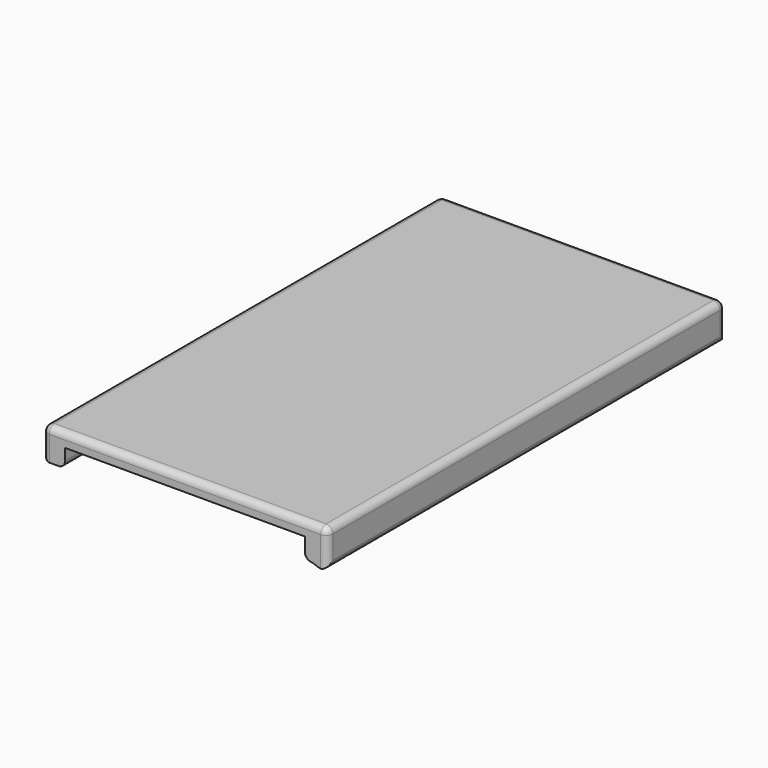
from build123d import *

# Parameters (mm, degrees)
F1_DEPTH = 110
F2_R     = 1.5


with BuildPart() as f1:
    # F0 (on Front) → F1 (new body)
    with BuildSketch(Plane.XZ):
        with BuildLine():
            Line((31.5, -6), (31.5, 3))
            Line((31.5, 3), (-31.5, 3))
            Line((-31.5, 3), (-31.5, -4))
            Line((-31.5, -4), (-26.5, -4))
            Line((-26.5, -4), (-26.5, 0))
            Line((-26.5, 0), (26.5, 0))
            Line((26.5, 0), (26.5, -4.504674))
            add(Edge.make_bspline(
                [(31.5, -6), (30.195339, -5.47295), (28.506598, -4.186289), (26.5, -4.504674)],
                knots=[0, 0, 0, 0, 5.218812, 5.218812, 5.218812, 5.218812], degree=3))
        make_face()
    extrude(amount=-F1_DEPTH)

    # F2
    f2_edges = [f1.edges().sort_by_distance(p)[0] for p in [
        (0, 0, 3),
        (31.5, 55, 3),
        (-31.5, 55, 3),
        (0, 110, 3),
        (-31.5, 55, -4),
        (-26.5, 55, -4),
        (26.5, 55, -4.504674),
        (31.5, 55, -6),
        (-31.5, 110, -0.5),
        (31.5, 110, -1.5),
        (-31.5, 0, -0.5),
        (31.5, 0, -1.5),
    ]]
    fillet(f2_edges, radius=F2_R)


solid = f1.part
